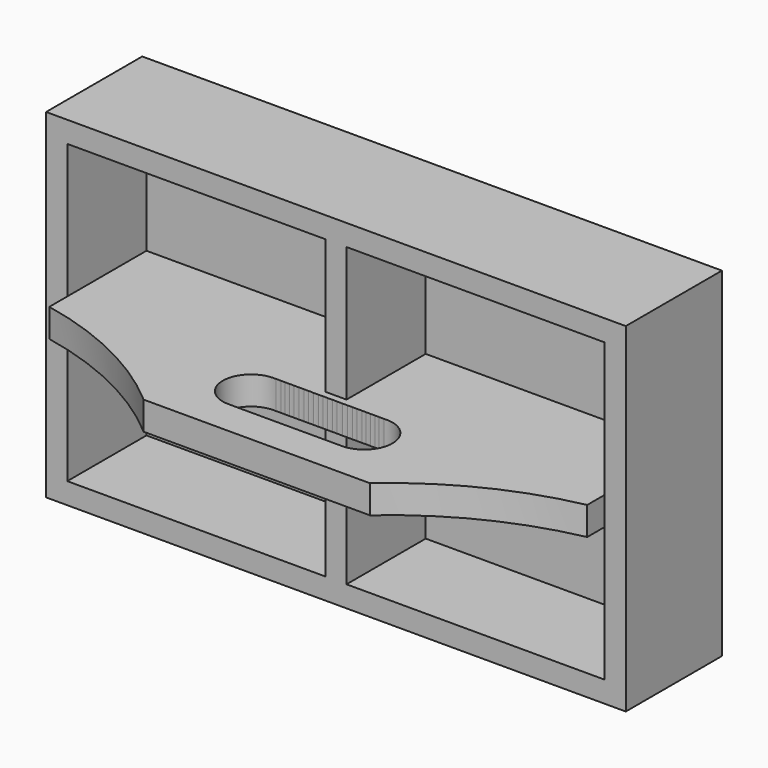
from build123d import *

# Parameters (mm, degrees)
F0_W     = 260.35
F0_H     = 152.4
F1_DEPTH = 9.525
F3_DEPTH = 44.45
F5_DEPTH = 88.9
F7_D     = 25.4
F9_DEPTH = 25.4


with BuildPart() as f1:
    # F0 (on Front) → F1 (new body)
    with BuildSketch(Plane.XZ):
        with Locations((3.93492, 39.978574)):
            Rectangle(F0_W, F0_H)
    extrude(amount=F1_DEPTH)

    # F2 (on face) → F3 (join)
    with BuildSketch(Plane.XZ.offset(9.525)):
        Polygon((-126.24008, 106.653574), (-126.24008, -26.696426), (-116.71508, -26.696426), (-116.71508, 49.017824), (-116.71508, 106.653574), align=None)
        Polygon((124.58492, 106.653574), (134.10992, 106.653574), (134.10992, 116.178574), (-126.24008, 116.178574), (-126.24008, 106.653574), (-116.71508, 106.653574), (-0.82758, 106.653574), (8.69742, 106.653574), align=None)
        Polygon((-0.82758, -26.696426), (8.69742, -26.696426), (8.69742, 55.01255), (8.69742, 106.653574), (-0.82758, 106.653574), (-0.82758, 77.835699), align=None)
        Polygon((124.58492, -26.696426), (134.10992, -26.696426), (134.10992, 106.653574), (124.58492, 106.653574), (124.58492, 65.446369), align=None)
        Polygon((-126.24008, -36.221426), (134.10992, -36.221426), (134.10992, -26.696426), (124.58492, -26.696426), (8.69742, -26.696426), (-0.82758, -26.696426), (-116.71508, -26.696426), (-126.24008, -26.696426), align=None)
    extrude(amount=F3_DEPTH)

    # F4 (on face) → F5 (join)
    with BuildSketch(Plane.XZ.offset(9.525)):
        Polygon((-116.71508, 33.628574), (38.57762, 33.628574), (124.58492, 33.628574), (124.58492, 46.328574), (37.81344, 46.328574), (-4.043767, 46.328574), (-116.71508, 46.328574), align=None)
        Polygon((-116.71508, 33.628574), (38.57762, 33.628574), (124.58492, 33.628574), (124.58492, 46.328574), (37.81344, 46.328574), (-4.043767, 46.328574), (-116.71508, 46.328574), align=None)
    extrude(amount=F5_DEPTH)

    # F7 (through all)
    with Locations(Plane(origin=(0, 0, 33.628574), x_dir=(1, 0, 0), z_dir=(0, 0, -1))):
        with Locations((-21.46508, 69.85), (-19.252239, 69.85), (-17.284498, 69.85), (-15.503385, 69.85), (-13.247554, 69.85), (-11.229082, 69.85), (-8.837353, 69.85), (-6.768152, 69.85), (-4.800411, 69.85), (-2.307222, 69.85), (-0.28875, 69.85), (1.628261, 69.85), (3.93492, 69.85), (5.801102, 69.85), (8.056932, 69.85), (10.68602, 69.85), (12.840387, 69.85), (14.85886, 69.85), (17.06396, 69.85), (19.218329, 69.85), (20.676916, 69.85), (23.255272, 69.85), (25.036385, 69.85), (26.868232, 69.85), (29.33492, 69.85)):
            Hole(F7_D / 2)

    # F8 (on face) → F9 (cut)
    with BuildSketch(Plane(origin=(0, 0, 33.628574), x_dir=(1, 0, 0), z_dir=(0, 0, -1))):
        with BuildLine():
            Line((-116.71508, 98.425), (-116.71508, 64.064013))
            ThreePointArc((-116.71508, 64.064013), (-79.559192, 76.709492), (-46.86508, 98.425))
            Line((-46.86508, 98.425), (-116.71508, 98.425))
        make_face()
        with BuildLine():
            Line((124.58492, 98.425), (54.73492, 98.425))
            ThreePointArc((54.73492, 98.425), (87.401467, 76.523831), (124.58492, 63.711519))
            Line((124.58492, 63.711519), (124.58492, 98.425))
        make_face()
    extrude(amount=-F9_DEPTH, mode=Mode.SUBTRACT)


solid = f1.part
